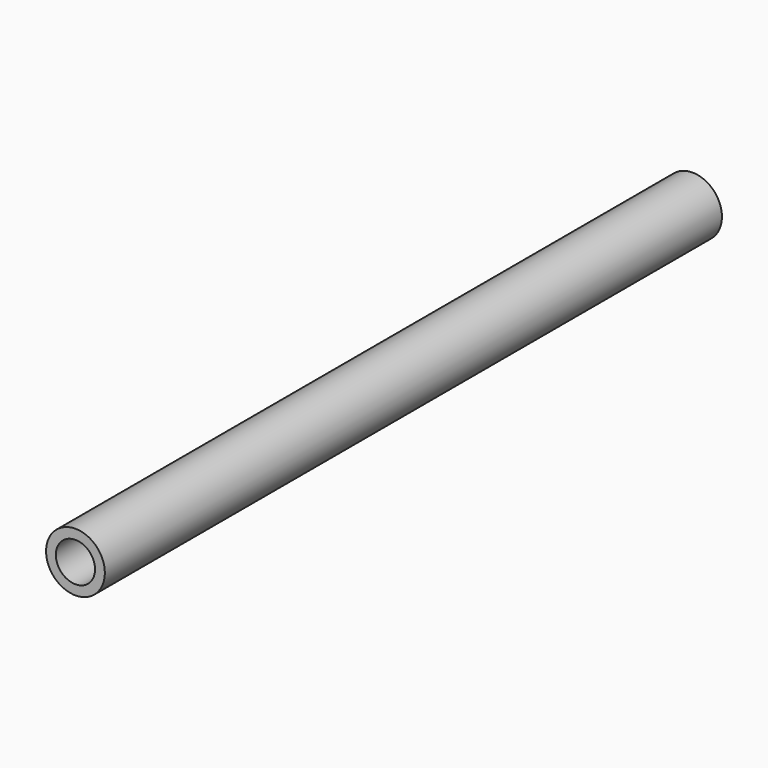
from build123d import *

# Parameters (mm, degrees)
F3_R     = 12.7
F4_DEPTH = 500.001


with BuildPart() as f2:
    # F0 (on Right) → F2 (revolve)
    with BuildSketch(Plane.YZ):
        Polygon((0, 19.05), (0, 0), (460, 0), (460, 5.08), (500, 16.51), (500, 19.05), align=None)
    revolve(axis=Axis((0, 0, 0), (0, -1, 0)))

    # F3 (on Front) → F4 (cut, through all)
    with BuildSketch(Plane.XZ):
        Circle(F3_R)
    extrude(amount=-F4_DEPTH, mode=Mode.SUBTRACT)


solid = f2.part
